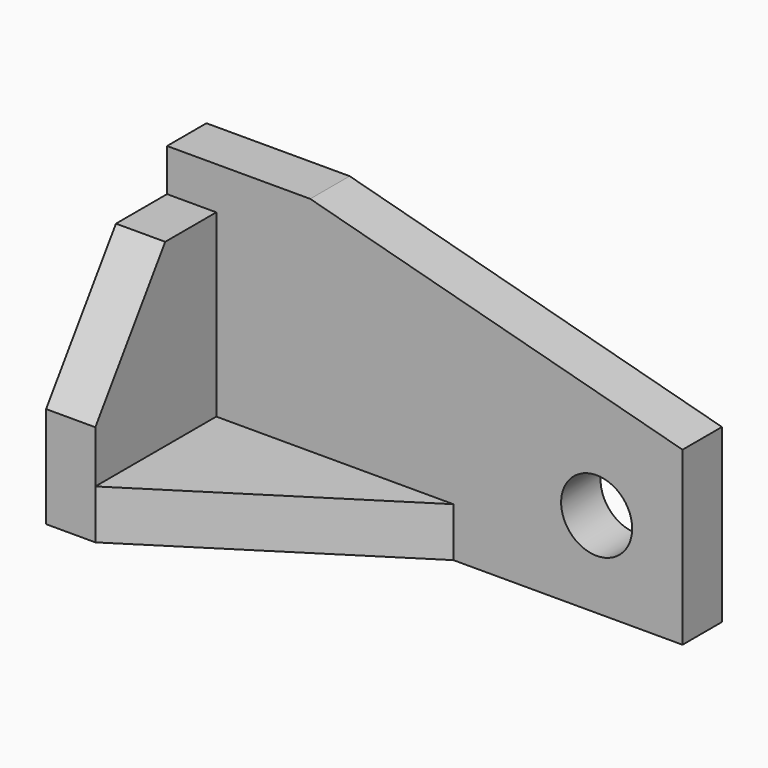
from build123d import *

# Parameters (mm, degrees)
F1_DEPTH = 10.922
F3_DEPTH = 33.528
F5_DEPTH = 114.301
F7_DEPTH = 10.923
F8_R     = 7.874
F9_DEPTH = 10.923


with BuildPart() as f1:
    # F0 (on Front) → F1 (new body)
    with BuildSketch(Plane.XZ):
        Polygon((-23.792913, 30.441735), (-55.542913, 30.441735), (-55.542913, -29.756265), (58.757087, -29.756265), (58.757087, 8.322587), align=None)
    extrude(amount=F1_DEPTH)

    # F2 (on face) → F3 (join)
    with BuildSketch(Plane.XZ.offset(10.922)):
        Polygon((-44.620913, 21.043735), (-55.542913, 21.043735), (-55.542913, -29.756265), (7.957087, -29.756265), (7.957087, -18.834265), (-44.620913, -18.834265), align=None)
    extrude(amount=F3_DEPTH)

    # F4 (on face) → F5 (cut, through all)
    with BuildSketch(Plane(origin=(-55.542913, 0, 0), x_dir=(0, -1, 0), z_dir=(-1, 0, 0))):
        Polygon((25.08411, 21.043735), (44.45, -7.284547), (44.45, 21.043735), align=None)
    extrude(amount=-F5_DEPTH, mode=Mode.SUBTRACT)

    # F6 (on face) → F7 (cut, through all)
    with BuildSketch(Plane.XY.offset(-18.834265)):
        Polygon((7.957087, -44.45), (7.957087, -10.922), (-44.620913, -44.45), align=None)
    extrude(amount=-F7_DEPTH, mode=Mode.SUBTRACT)

    # F8 (on face) → F9 (cut, through all)
    with BuildSketch(Plane.XZ.offset(10.922)):
        with Locations((39.718021, -10.716839)):
            Circle(F8_R)
    extrude(amount=-F9_DEPTH, mode=Mode.SUBTRACT)


solid = f1.part
